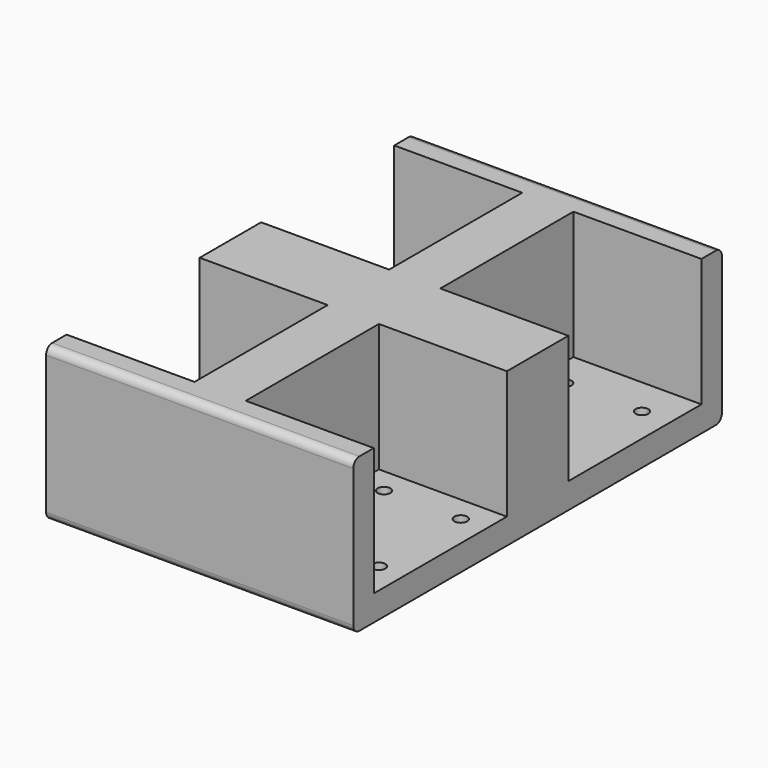
from build123d import *

# Parameters (mm, degrees)
F0_W          = 120
F0_H          = 180
F1_DEPTH      = 30
F2_W          = 65
F2_H          = 50
F4_DEPTH      = 50
F3_W          = 65
F3_H          = 50
F5_DEPTH      = 50
F6_R          = 3
F7_R          = 2.5
F8_DEPTH      = 25
F8_DEPTH_BACK = 25


with BuildPart() as f1:
    # F0 (on Top) → F1 (new body, symmetric)
    with BuildSketch(Plane.XY):
        Rectangle(F0_W, F0_H)
    extrude(amount=F1_DEPTH, both=True)

    # F2 (on face) → F4 (cut)
    with BuildSketch(Plane.YZ.offset(60)):
        with Locations((-47.5, 5)):
            Rectangle(F2_W, F2_H)
        with Locations((47.5, 5)):
            Rectangle(F2_W, F2_H)
    extrude(amount=-F4_DEPTH, mode=Mode.SUBTRACT)

    # F3 (on face) → F5 (cut)
    with BuildSketch(Plane(origin=(-60, 0, 0), x_dir=(0, -1, 0), z_dir=(-1, 0, 0))):
        with Locations((-47.5, 5)):
            Rectangle(F3_W, F3_H)
        with Locations((47.5, 5)):
            Rectangle(F3_W, F3_H)
    extrude(amount=-F5_DEPTH, mode=Mode.SUBTRACT)

    # F6
    f6_edges = [f1.edges().sort_by_distance(p)[0] for p in [
        (0, -90, 30),
        (0, 90, 30),
        (0, -90, -30),
        (0, 90, -30),
    ]]
    fillet(f6_edges, radius=F6_R)

    # F7 (on face) → F8 (cut, two sides)
    with BuildSketch(Plane.XY.offset(-20)) as f8_sk:
        with Locations((50, -65)):
            Circle(F7_R)
        with Locations((50, -25)):
            Circle(F7_R)
        with Locations((20, -65)):
            Circle(F7_R)
        with Locations((20, -25)):
            Circle(F7_R)
        with Locations((48.7637452036, 25)):
            Circle(F7_R)
        with Locations((18.7637452036, 25)):
            Circle(F7_R)
        with Locations((18.7637452036, 65)):
            Circle(F7_R)
        with Locations((48.7637452036, 65)):
            Circle(F7_R)
    extrude(amount=-F8_DEPTH, mode=Mode.SUBTRACT)
    extrude(f8_sk.sketch, amount=F8_DEPTH_BACK, mode=Mode.SUBTRACT)


solid = f1.part
